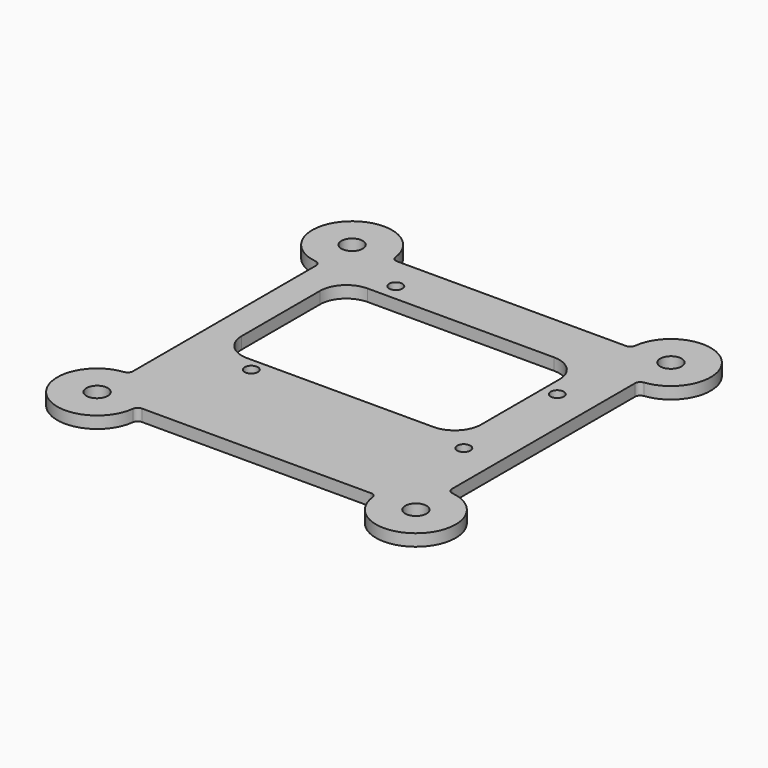
from build123d import *

# Parameters (mm, degrees)
F0_R     = 2.5527
F0_R_2   = 1.5875
F1_DEPTH = 2.8448


with BuildPart() as f1:
    # F0 (on Top) → F1 (new body)
    with BuildSketch(Plane.XY):
        with BuildLine():
            Line((27.039664, 30.710469), (-27.720269, 30.710469))
            ThreePointArc((-27.720269, 30.710469), (-28.563817, 31.031086), (-28.981449, 31.831057))
            ThreePointArc((-28.981449, 31.831057), (-45.175495, 37.445661), (-39.560891, 21.251615))
            ThreePointArc((-39.560891, 21.251615), (-38.76092, 20.833983), (-38.440302, 19.990435))
            Line((-38.440302, 19.990435), (-38.440302, -34.769498))
            ThreePointArc((-38.440302, -34.769498), (-38.76092, -35.613046), (-39.560891, -36.030678))
            ThreePointArc((-39.560891, -36.030678), (-45.175495, -52.224723), (-28.981449, -46.61012))
            ThreePointArc((-28.981449, -46.61012), (-28.563817, -45.810149), (-27.720269, -45.489531))
            Line((-27.720269, -45.489531), (27.039664, -45.489531))
            ThreePointArc((27.039664, -45.489531), (27.883212, -45.810149), (28.300844, -46.61012))
            ThreePointArc((28.300844, -46.61012), (44.49489, -52.224723), (38.880286, -36.030678))
            ThreePointArc((38.880286, -36.030678), (38.080315, -35.613046), (37.759698, -34.769498))
            Line((37.759698, -34.769498), (37.759698, 19.990435))
            ThreePointArc((37.759698, 19.990435), (38.080315, 20.833983), (38.880286, 21.251615))
            ThreePointArc((38.880286, 21.251615), (44.49489, 37.445661), (28.300844, 31.831057))
            ThreePointArc((28.300844, 31.831057), (27.883212, 31.031086), (27.039664, 30.710469))
        make_face()
        with Locations((-38.440302, -45.489531)):
            Circle(F0_R, mode=Mode.SUBTRACT)
        with Locations((-21.61768, -20.452246)):
            Circle(F0_R_2, mode=Mode.SUBTRACT)
        with Locations((37.759698, -45.489531)):
            Circle(F0_R, mode=Mode.SUBTRACT)
        with Locations((29.18232, -20.452246)):
            Circle(F0_R_2, mode=Mode.SUBTRACT)
        with BuildLine():
            ThreePointArc((-31.482945, 12.370435), (-29.623073, 16.860563), (-25.132945, 18.720435))
            Line((-25.132945, 18.720435), (19.419664, 18.720435))
            ThreePointArc((19.419664, 18.720435), (23.909792, 16.860563), (25.769664, 12.370435))
            Line((25.769664, 12.370435), (25.769664, -10.966996))
            ThreePointArc((25.769664, -10.966996), (23.909792, -15.457124), (19.419664, -17.316996))
            Line((19.419664, -17.316996), (-25.132945, -17.316996))
            ThreePointArc((-25.132945, -17.316996), (-29.623073, -15.457124), (-31.482945, -10.966996))
            Line((-31.482945, -10.966996), (-31.482945, 12.370435))
        make_face(mode=Mode.SUBTRACT)
        with Locations((-38.440302, 30.710469)):
            Circle(F0_R, mode=Mode.SUBTRACT)
        with Locations((-21.61768, 22.727754)):
            Circle(F0_R_2, mode=Mode.SUBTRACT)
        with Locations((29.18232, 7.487754)):
            Circle(F0_R_2, mode=Mode.SUBTRACT)
        with Locations((37.759698, 30.710469)):
            Circle(F0_R, mode=Mode.SUBTRACT)
    extrude(amount=F1_DEPTH)


solid = f1.part
